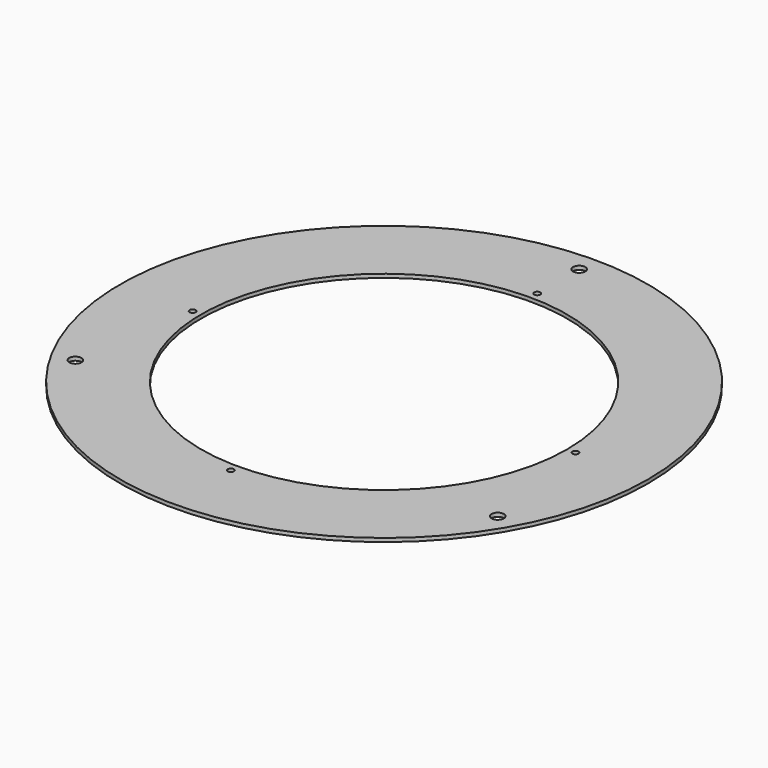
from build123d import *

# Parameters (mm, degrees)
F0_R     = 216.451493
F0_R_2   = 150
F1_DEPTH = 3
F2_R     = 5
F3_DEPTH = 3
F4_R     = 2.5
F5_DEPTH = 3


with BuildPart() as f1:
    # F0 (on Top) → F1 (new body)
    with BuildSketch(Plane.XY):
        Circle(F0_R)
        Circle(F0_R_2, mode=Mode.SUBTRACT)
    extrude(amount=F1_DEPTH)

    # F2 (on face) → F3 (cut)
    with BuildSketch(Plane.XY.offset(3)):
        with BuildLine():
            ThreePointArc((0, 195), (3.535534, 196.464466), (5, 200))
            ThreePointArc((5, 200), (-3.535534, 203.535534), (0, 195))
        make_face()
        with Locations((-173.205081, -100)):
            Circle(F2_R)
        with Locations((173.205081, -100)):
            Circle(F2_R)
    extrude(amount=-F3_DEPTH, mode=Mode.SUBTRACT)

    # F4 (on face) → F5 (cut)
    with BuildSketch(Plane.XY.offset(3)):
        with BuildLine():
            ThreePointArc((0, 154.5), (1.767767, 155.232233), (2.5, 157))
            ThreePointArc((2.5, 157), (-1.767767, 158.767767), (0, 154.5))
        make_face()
        with Locations((-157, 0)):
            Circle(F4_R)
        with Locations((0, -157)):
            Circle(F4_R)
        with Locations((157, 0)):
            Circle(F4_R)
    extrude(amount=-F5_DEPTH, mode=Mode.SUBTRACT)


solid = f1.part
